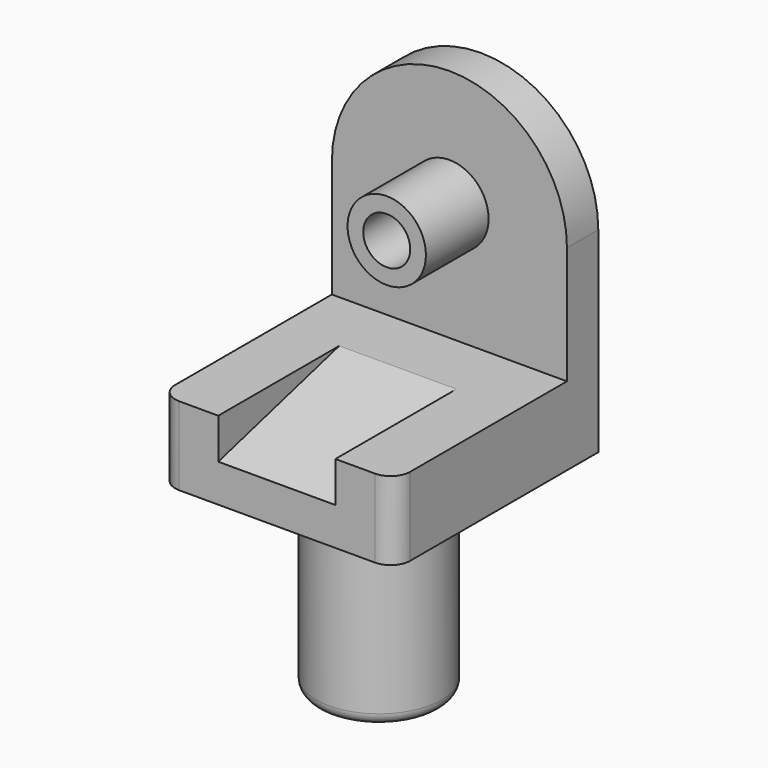
from build123d import *

# Parameters (mm, degrees)
F0_R           = 16
F1_DEPTH       = 50
F2_R           = 16
F3_DEPTH       = 20
F2_W           = 60
F2_H           = 10
F4_DEPTH       = 50
F6_DEPTH       = 20
F6_DEPTH_BACK  = 10
F7_DEPTH       = 20
F7_DEPTH_BACK  = 10
F8_DEPTH       = 10
F9_R           = 5
F10_R          = 5
F12_DEPTH      = 15
F12_DEPTH_BACK = 14.9
F13_R          = 3


with BuildPart() as f1:
    # F0 (on Top) → F1 (new body)
    with BuildSketch(Plane.XY):
        Circle(F0_R)
    extrude(amount=F1_DEPTH)

    # F2 (on face) → F3 (join)
    with BuildSketch(Plane.XY.offset(50)):
        Polygon((-30, 22.5), (-30, 0), (-30, -32.5), (30, -32.5), (30, 0), (30, 22.5), align=None)
        Circle(F2_R, mode=Mode.SUBTRACT)
        Circle(F2_R)
    extrude(amount=F3_DEPTH)

    # F2 (on face) → F4 (join)
    with BuildSketch(Plane.XY.offset(50)):
        with Locations((0, 27.5)):
            Rectangle(F2_W, F2_H)
    extrude(amount=F4_DEPTH)

    # F5 (on face) → F6 (cut, two sides)
    with BuildSketch(Plane.XZ.offset(-22.5)) as f6_sk:
        with BuildLine():
            ThreePointArc((-6, 100), (0, 94), (6, 100))
            Line((6, 100), (-6, 100))
        make_face()
        with BuildLine():
            Line((-6, 100), (6, 100))
            ThreePointArc((6, 100), (0, 106), (-6, 100))
        make_face()
    extrude(amount=F6_DEPTH, mode=Mode.SUBTRACT)
    extrude(f6_sk.sketch, amount=-F6_DEPTH_BACK, mode=Mode.SUBTRACT)

    # F5 (on face) → F7 (join, two sides)
    with BuildSketch(Plane.XZ.offset(-22.5)) as f7_sk:
        with BuildLine():
            ThreePointArc((-10, 100), (0, 90), (10, 100))
            Line((10, 100), (6, 100))
            ThreePointArc((6, 100), (0, 94), (-6, 100))
            Line((-6, 100), (-10, 100))
        make_face()
        with BuildLine():
            Line((6, 100), (10, 100))
            ThreePointArc((10, 100), (0, 110), (-10, 100))
            Line((-10, 100), (-6, 100))
            ThreePointArc((-6, 100), (0, 106), (6, 100))
        make_face()
    extrude(amount=F7_DEPTH)
    extrude(f7_sk.sketch, amount=-F7_DEPTH_BACK)

    # F5 (on face) → F8 (join)
    with BuildSketch(Plane.XZ.offset(-22.5)):
        with BuildLine():
            Line((10, 100), (30, 100))
            ThreePointArc((30, 100), (0, 130), (-30, 100))
            Line((-30, 100), (-10, 100))
            ThreePointArc((-10, 100), (0, 110), (10, 100))
        make_face()
    extrude(amount=-F8_DEPTH)

    # F9
    f9_edges = [f1.edges().sort_by_distance(p)[0] for p in [
        (30, -32.5, 60),
    ]]
    fillet(f9_edges, radius=F9_R)

    # F10
    f10_edges = [f1.edges().sort_by_distance(p)[0] for p in [
        (-30, -32.5, 60),
    ]]
    fillet(f10_edges, radius=F10_R)

    # F11 (on Right) → F12 (cut, two sides)
    with BuildSketch(Plane.YZ) as f12_sk:
        Polygon((6.397780925, 70.0798109174), (-32.611630857, 70.0798109174), (-32.611630857, 59.6272705332), align=None)
    extrude(amount=-F12_DEPTH, mode=Mode.SUBTRACT)
    extrude(f12_sk.sketch, amount=F12_DEPTH_BACK, mode=Mode.SUBTRACT)

    # F13
    f13_edges = [f1.edges().sort_by_distance(p)[0] for p in [
        (-16, 0, 0),
    ]]
    fillet(f13_edges, radius=F13_R)


solid = f1.part
